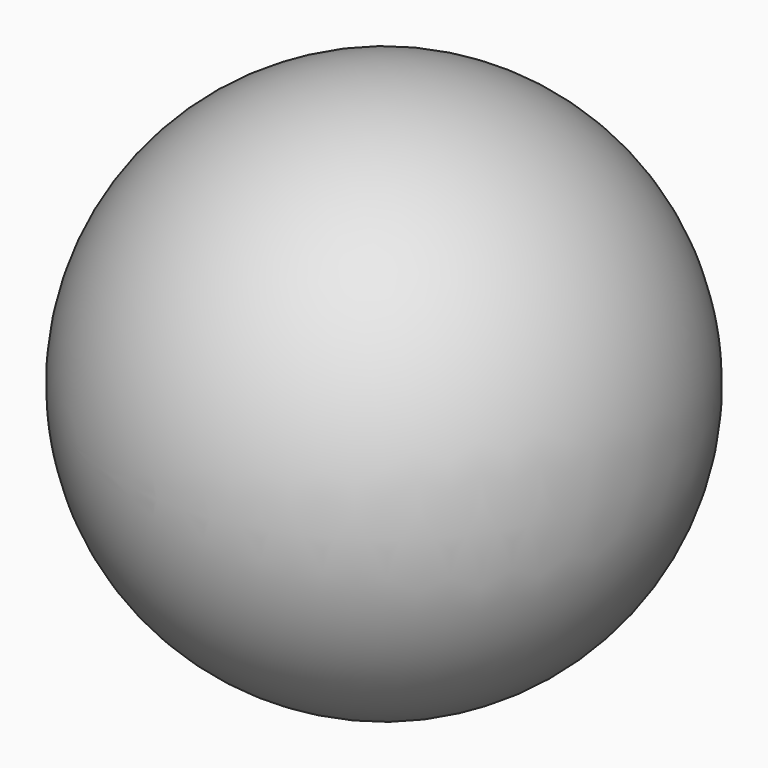
from build123d import *


with BuildPart() as f1:
    # F0 (on Top) → F1 (revolve)
    with BuildSketch(Plane.XY):
        with BuildLine():
            Line((0, 0), (-24.1663209474, -39.2541431721))
            ThreePointArc((-24.1663209474, -39.2541431721), (39.2541431721, -24.1663209474), (24.1663209474, 39.2541431721))
            Line((24.1663209474, 39.2541431721), (0, 0))
        make_face()
    revolve(axis=Axis((12.0831604737, 19.627071586, 0), (0.5242535872, 0.8515621975, 0)))


solid = f1.part
